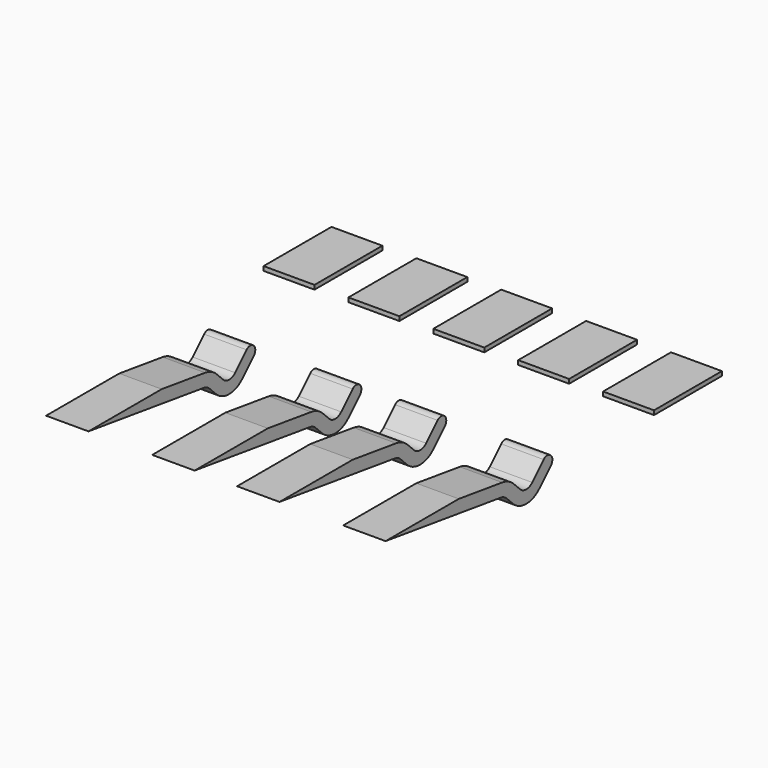
from build123d import *

# Parameters (mm, degrees)
EXTRUDE010_DEPTH = 1
BOX053_W         = 1.2
BOX053_H         = 2
BOX053_DEPTH     = 0.1
ARRAY015_X_COUNT = 5
ARRAY015_X_PITCH = 2


with BuildPart() as extrude017:
    # Sketch014 → Extrude010 (new body)
    with BuildSketch(Plane.YZ):
        with BuildLine():
            Line((1.279699, -0.17985), (0, 0))
            Line((0, 0), (-2.155589, 0))
            Line((-2.155589, 0), (1.237947, -0.47693))
            ThreePointArc((1.408328, -0.561879), (1.330055, -0.505531), (1.237947, -0.47693))
            Line((1.408328, -0.561879), (1.596448, -0.749999))
            ThreePointArc((1.596448, -0.749999), (1.985356, -0.91109), (2.374264, -0.75))
            Line((2.374264, -0.75), (2.712132, -0.412132))
            ThreePointArc((2.712132, -0.412132), (2.712132, -0.2), (2.5, -0.2))
            Line((2.162133, -0.537867), (2.5, -0.2))
            ThreePointArc((1.80858, -0.537867), (1.985356, -0.61109), (2.162133, -0.537867))
            Line((1.62046, -0.349747), (1.80858, -0.537867))
            ThreePointArc((1.62046, -0.349747), (1.463914, -0.23705), (1.279699, -0.17985))
        make_face()
    extrude(amount=EXTRUDE010_DEPTH)


with BuildPart() as extrude017_1:
    # Extrude010 placement: moved
    add(extrude017.part.moved(Location((-4, 0, 0))))


with BuildPart() as extrude010:
    # Clone021 base: copy of Extrude017
    add(extrude017_1.part)


with BuildPart() as extrude010_1:
    # Clone021 placement: moved
    add(extrude010.part.moved(Location((2.5, 0, 0))))


with BuildPart() as extrude011:
    # Clone022 base: copy of Extrude017
    add(extrude017_1.part)


with BuildPart() as extrude011_1:
    # Clone022 placement: moved
    add(extrude011.part.moved(Location((4.5, 0, 0))))


with BuildPart() as extrude012:
    # Clone023 base: copy of Extrude017
    add(extrude017_1.part)


with BuildPart() as extrude012_1:
    # Clone023 placement: moved
    add(extrude012.part.moved(Location((7, 0, 0))))


with BuildPart() as fusion040:
    # Fusion040 base: copy of Extrude017
    add(extrude017_1.part)

    # Fusion040: union Extrude010, Extrude011, Extrude012
    add(extrude010_1.part)
    add(extrude011_1.part)
    add(extrude012_1.part)


with BuildPart() as fusion040_1:
    # Fusion040 placement: moved
    add(fusion040.part.moved(Location((0, 10, 12.6))))


with BuildPart() as fusion041:
    # Box053 → Box053 (new body)
    with BuildSketch(Plane(origin=(-4.6, 15, 12.5), x_dir=(1, 0, 0), z_dir=(0, 0, 1))):
        with Locations((0.6, 1)):
            Rectangle(BOX053_W, BOX053_H)
    extrude(amount=BOX053_DEPTH)

    # Array015 X: Fusion041 ×5


with BuildPart() as fusion041_1:
    add(fusion041.part)
    with Locations(*[(i * ARRAY015_X_PITCH, 0, 0) for i in range(1, ARRAY015_X_COUNT)]):
        add(fusion041.part)

    # Fusion041: union Fusion040
    add(fusion040_1.part)


solid = fusion041_1.part
